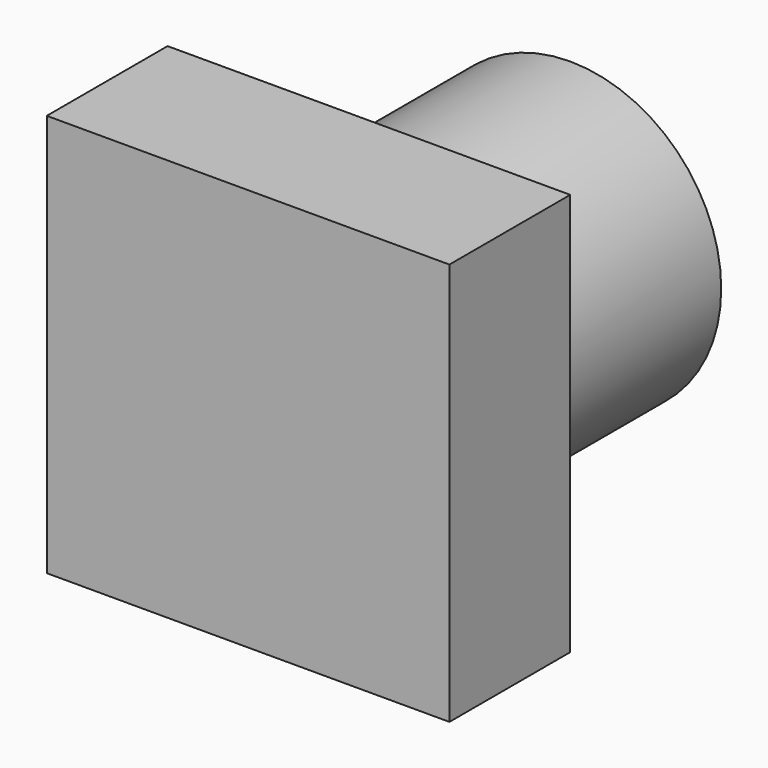
from build123d import *

# Parameters (mm, degrees)
F0_W     = 80
F0_H     = 80
F1_DEPTH = 30
F2_R     = 30
F3_DEPTH = 50
F4_R     = 20
F5_DEPTH = 50


with BuildPart() as f1:
    # F0 (on Front) → F1 (new body)
    with BuildSketch(Plane.XZ):
        Rectangle(F0_W, F0_H)
        Rectangle(F0_W, F0_H)
    extrude(amount=F1_DEPTH)

    # F2 (on face) → F3 (join)
    with BuildSketch(Plane(origin=(0, 0, 0), x_dir=(-1, 0, 0), z_dir=(0, 1, 0))):
        Circle(F2_R)
    extrude(amount=F3_DEPTH)

    # F4 (on face) → F5 (cut)
    with BuildSketch(Plane(origin=(0, 50, 0), x_dir=(-1, 0, 0), z_dir=(0, 1, 0))):
        Circle(F4_R)
    extrude(amount=-F5_DEPTH, mode=Mode.SUBTRACT)


solid = f1.part
